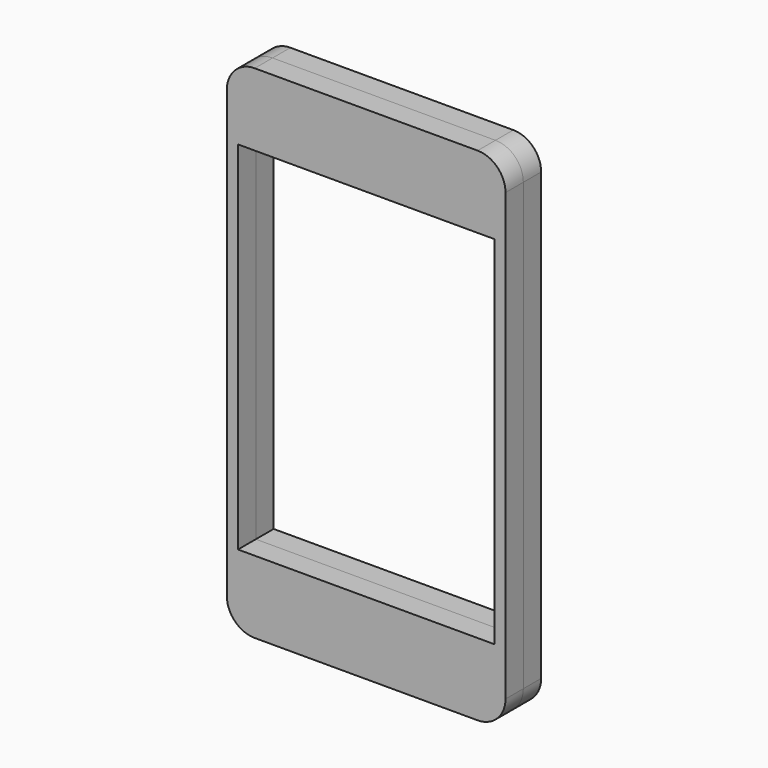
from build123d import *

# Parameters (mm, degrees)
F0_W     = 46
F0_H     = 64
F1_DEPTH = 4
F2_DEPTH = 4


with BuildPart() as f1:
    # F0 (on Front) → F1 (new body)
    with BuildSketch(Plane.XZ):
        with BuildLine():
            ThreePointArc((-25, 5), (-23.535534, 1.464466), (-20, 0))
            Line((-20, 0), (20, 0))
            ThreePointArc((20, 0), (23.535534, 1.464466), (25, 5))
            Line((25, 5), (25, 85))
            ThreePointArc((25, 85), (23.535534, 88.535534), (20, 90))
            Line((20, 90), (-20, 90))
            ThreePointArc((-20, 90), (-23.535534, 88.535534), (-25, 85))
            Line((-25, 85), (-25, 5))
        make_face()
        with Locations((0, 45)):
            Rectangle(F0_W, F0_H, mode=Mode.SUBTRACT)
    extrude(amount=F1_DEPTH)


with BuildPart() as f2:
    # F0 (on Front) → F2 (new body)
    with BuildSketch(Plane.XZ):
        with BuildLine():
            ThreePointArc((-25, 5), (-23.535534, 1.464466), (-20, 0))
            Line((-20, 0), (20, 0))
            ThreePointArc((20, 0), (23.535534, 1.464466), (25, 5))
            Line((25, 5), (25, 85))
            ThreePointArc((25, 85), (23.535534, 88.535534), (20, 90))
            Line((20, 90), (-20, 90))
            ThreePointArc((-20, 90), (-23.535534, 88.535534), (-25, 85))
            Line((-25, 85), (-25, 5))
        make_face()
        with Locations((0, 45)):
            Rectangle(F0_W, F0_H, mode=Mode.SUBTRACT)
    extrude(amount=-F2_DEPTH)


solid = Compound([f1.part, f2.part])
